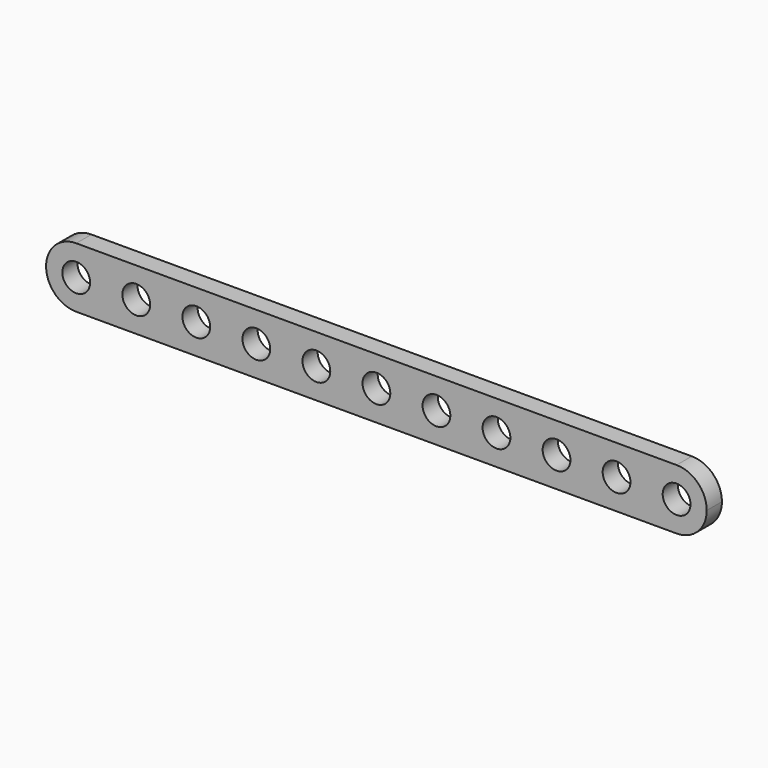
from build123d import *

# Parameters (mm, degrees)
F0_R     = 2.926405
F1_DEPTH = 4


with BuildPart() as f1:
    # F0 (on Front) → F1 (new body)
    with BuildSketch(Plane.XZ):
        with BuildLine():
            ThreePointArc((0, 6.35), (1.859872, 1.859872), (6.35, 0))
            Line((6.35, 0), (132.85, 0))
            ThreePointArc((132.85, 0), (137.340128, 1.859872), (139.2, 6.35))
            ThreePointArc((139.2, 6.35), (137.340128, 10.840128), (132.85, 12.7))
            Line((132.85, 12.7), (6.35, 12.7))
            ThreePointArc((6.35, 12.7), (1.859872, 10.840128), (0, 6.35))
        make_face()
        with Locations((6.35, 6.35)):
            Circle(F0_R, mode=Mode.SUBTRACT)
        with Locations((19, 6.35)):
            Circle(F0_R, mode=Mode.SUBTRACT)
        with Locations((31.65, 6.35)):
            Circle(F0_R, mode=Mode.SUBTRACT)
        with Locations((44.3, 6.35)):
            Circle(F0_R, mode=Mode.SUBTRACT)
        with Locations((56.95, 6.35)):
            Circle(F0_R, mode=Mode.SUBTRACT)
        with Locations((69.6, 6.35)):
            Circle(F0_R, mode=Mode.SUBTRACT)
        with Locations((82.25, 6.35)):
            Circle(F0_R, mode=Mode.SUBTRACT)
        with Locations((94.9, 6.35)):
            Circle(F0_R, mode=Mode.SUBTRACT)
        with Locations((107.55, 6.35)):
            Circle(F0_R, mode=Mode.SUBTRACT)
        with Locations((120.2, 6.35)):
            Circle(F0_R, mode=Mode.SUBTRACT)
        with Locations((132.85, 6.35)):
            Circle(F0_R, mode=Mode.SUBTRACT)
    extrude(amount=F1_DEPTH)


solid = f1.part
